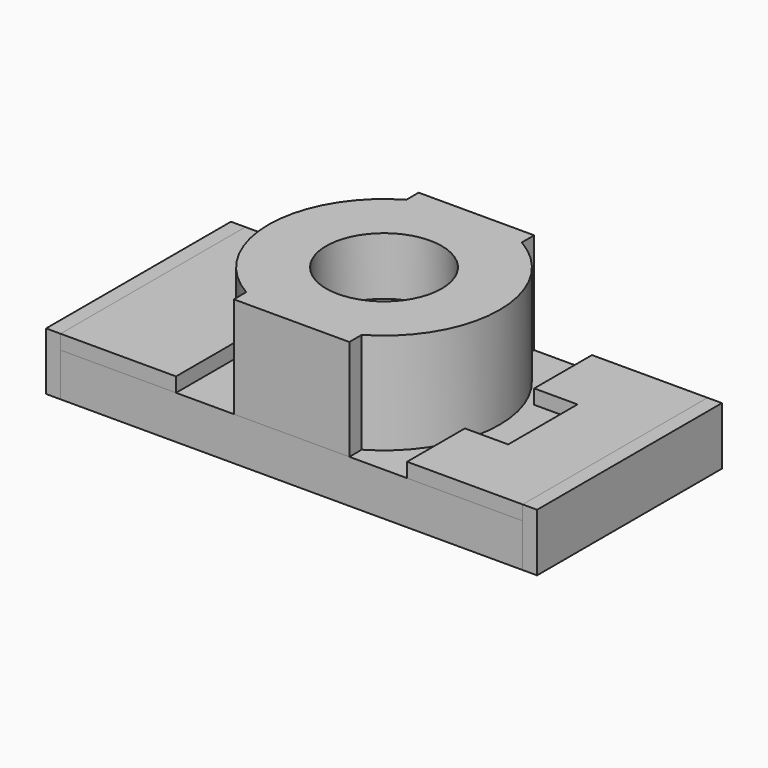
from build123d import *

# Parameters (mm, degrees)
F0_W      = 3.2
F0_H      = 1.6
F1_DEPTH  = 0.3
F2_W      = 0.8
F2_H      = 1.6
F3_DEPTH  = 0.1
F4_W      = 1.6
F4_H      = 0.4
F5_DEPTH  = 0.1
F6_W      = 1.6
F6_H      = 0.4
F7_DEPTH  = 0.1
F9_DEPTH  = 0.7
F10_R     = 0.4
F11_DEPTH = 0.4


with BuildPart() as f1:
    # F0 (on Top) → F1 (new body)
    with BuildSketch(Plane.XY):
        Rectangle(F0_W, F0_H)
    extrude(amount=F1_DEPTH)


with BuildPart() as f3:
    # F2 (on face) → F3 (new body)
    with BuildSketch(Plane.XY.offset(0.3)):
        with Locations((-1.2, 0)):
            Rectangle(F2_W, F2_H)
        Polygon((0.8, -0.3), (0.8, -0.8), (1.6, -0.8), (1.6, 0.8), (0.8, 0.8), (0.8, 0.3), (1.1, 0.3), (1.1, -0.3), align=None)
    extrude(amount=F3_DEPTH)


with BuildPart() as f5:
    # F4 (on face) → F5 (new body)
    with BuildSketch(Plane(origin=(-1.6, 0, 0), x_dir=(0, -1, 0), z_dir=(-1, 0, 0))):
        with Locations((0, 0.2)):
            Rectangle(F4_W, F4_H)
    extrude(amount=F5_DEPTH)


with BuildPart() as f7:
    # F6 (on face) → F7 (new body)
    with BuildSketch(Plane.YZ.offset(1.6)):
        with Locations((0, 0.2)):
            Rectangle(F6_W, F6_H)
    extrude(amount=F7_DEPTH)


with BuildPart() as f9:
    # F8 (on face) → F9 (new body)
    with BuildSketch(Plane.XY.offset(0.3)):
        with BuildLine():
            Line((-0.4, 0.8), (-0.4, 0.69282))
            ThreePointArc((-0.4, 0.69282), (-0.8, 0), (-0.4, -0.69282))
            Line((-0.4, -0.69282), (-0.4, -0.8))
            Line((-0.4, -0.8), (0.4, -0.8))
            Line((0.4, -0.8), (0.4, -0.69282))
            ThreePointArc((0.4, -0.69282), (0.8, 0), (0.4, 0.69282))
            Line((0.4, 0.69282), (0.4, 0.8))
            Line((0.4, 0.8), (-0.4, 0.8))
        make_face()
    extrude(amount=F9_DEPTH)

    # F10 (on face) → F11 (cut)
    with BuildSketch(Plane.XY.offset(1)):
        Circle(F10_R)
    extrude(amount=-F11_DEPTH, mode=Mode.SUBTRACT)


solid = Compound([f1.part, f3.part, f5.part, f7.part, f9.part])
